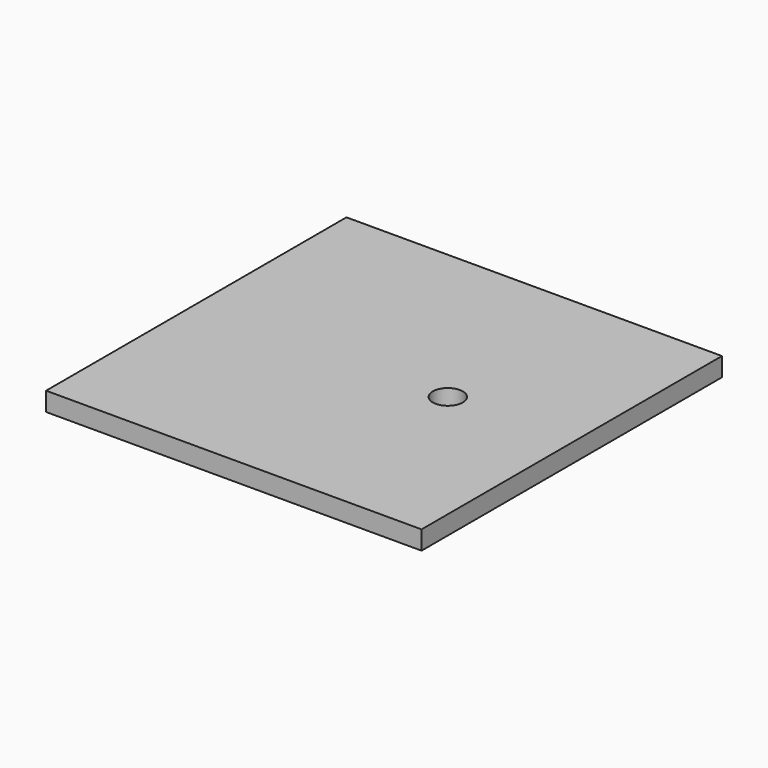
from build123d import *

# Parameters (mm, degrees)
SKETCH_W  = 200
SKETCH_H  = 200
SKETCH_R  = 8
PAD_DEPTH = 10


with BuildPart() as part:
    # Sketch → Pad (new body)
    with BuildSketch(Plane.XY):
        with Locations((100, 100)):
            Rectangle(SKETCH_W, SKETCH_H)
        with Locations((134, 100)):
            Circle(SKETCH_R, mode=Mode.SUBTRACT)
    extrude(amount=PAD_DEPTH)


solid = part.part
